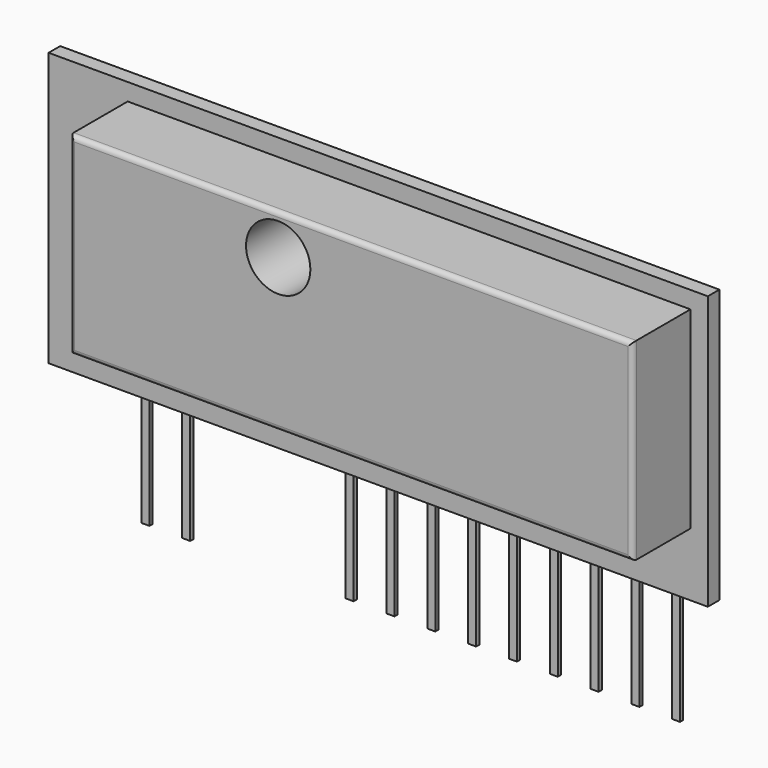
from build123d import *

# Parameters (mm, degrees)
SKETCH_W     = 41
SKETCH_H     = 17
PAD_DEPTH    = 0.9
PAD001_DEPTH = 0.25
PAD002_DEPTH = 0.25
PAD003_DEPTH = 0.25
PAD004_DEPTH = 0.25
PAD005_DEPTH = 0.25
PAD006_DEPTH = 0.25
PAD007_DEPTH = 0.25
PAD008_DEPTH = 0.25
PAD009_DEPTH = 0.25
PAD010_DEPTH = 0.25
PAD011_DEPTH = 0.25
SKETCH012_W  = 35
SKETCH012_H  = 12
SKETCH012_R  = 2
PAD012_DEPTH = 4.5
FILLET_R     = 0.3


with BuildPart() as pcb:
    # Sketch → Pad (new body)
    with BuildSketch(Plane.XZ):
        with Locations((0, 9)):
            Rectangle(SKETCH_W, SKETCH_H)
    extrude(amount=PAD_DEPTH)


with BuildPart() as pin2:
    # Sketch001 → Pad001 (new body)
    with BuildSketch(Plane.XZ):
        Polygon((-1, 3.29), (1, 3.29), (1, 0.75), (0.25, 0), (0.25, -7), (-0.25, -7), (-0.25, 0), (-1, 0.75), align=None)
    extrude(amount=PAD001_DEPTH)


with BuildPart() as pin2_1:
    # Body001 placement: moved
    add(pin2.part.moved(Location((-15.24, 0.3, 0))))


with BuildPart() as pin3:
    # Sketch002 → Pad002 (new body)
    with BuildSketch(Plane.XZ):
        Polygon((-1, 3.29), (1, 3.29), (1, 0.75), (0.25, 0), (0.25, -7), (-0.25, -7), (-0.25, 0), (-1, 0.75), align=None)
    extrude(amount=PAD002_DEPTH)


with BuildPart() as pin3_1:
    # Body002 placement: moved
    add(pin3.part.moved(Location((-12.7, 0.3, 0))))


with BuildPart() as pin7:
    # Sketch003 → Pad003 (new body)
    with BuildSketch(Plane.XZ):
        Polygon((-1, 3.29), (1, 3.29), (1, 0.75), (0.25, 0), (0.25, -7), (-0.25, -7), (-0.25, 0), (-1, 0.75), align=None)
    extrude(amount=PAD003_DEPTH)


with BuildPart() as pin7_1:
    # Body003 placement: moved
    add(pin7.part.moved(Location((-2.54, 0.3, 0))))


with BuildPart() as pin8:
    # Sketch004 → Pad004 (new body)
    with BuildSketch(Plane.XZ):
        Polygon((-1, 3.29), (1, 3.29), (1, 0.75), (0.25, 0), (0.25, -7), (-0.25, -7), (-0.25, 0), (-1, 0.75), align=None)
    extrude(amount=PAD004_DEPTH)


with BuildPart() as pin8_1:
    # Body004 placement: moved
    add(pin8.part.moved(Location((0, 0.3, 0))))


with BuildPart() as pin9:
    # Sketch005 → Pad005 (new body)
    with BuildSketch(Plane.XZ):
        Polygon((-1, 3.29), (1, 3.29), (1, 0.75), (0.25, 0), (0.25, -7), (-0.25, -7), (-0.25, 0), (-1, 0.75), align=None)
    extrude(amount=PAD005_DEPTH)


with BuildPart() as pin9_1:
    # Body005 placement: moved
    add(pin9.part.moved(Location((2.54, 0.3, 0))))


with BuildPart() as pin10:
    # Sketch006 → Pad006 (new body)
    with BuildSketch(Plane.XZ):
        Polygon((-1, 3.29), (1, 3.29), (1, 0.75), (0.25, 0), (0.25, -7), (-0.25, -7), (-0.25, 0), (-1, 0.75), align=None)
    extrude(amount=PAD006_DEPTH)


with BuildPart() as pin10_1:
    # Body006 placement: moved
    add(pin10.part.moved(Location((5.08, 0.3, 0))))


with BuildPart() as pin11:
    # Sketch007 → Pad007 (new body)
    with BuildSketch(Plane.XZ):
        Polygon((-1, 3.29), (1, 3.29), (1, 0.75), (0.25, 0), (0.25, -7), (-0.25, -7), (-0.25, 0), (-1, 0.75), align=None)
    extrude(amount=PAD007_DEPTH)


with BuildPart() as pin11_1:
    # Body007 placement: moved
    add(pin11.part.moved(Location((7.62, 0.3, 0))))


with BuildPart() as pin12:
    # Sketch008 → Pad008 (new body)
    with BuildSketch(Plane.XZ):
        Polygon((-1, 3.29), (1, 3.29), (1, 0.75), (0.25, 0), (0.25, -7), (-0.25, -7), (-0.25, 0), (-1, 0.75), align=None)
    extrude(amount=PAD008_DEPTH)


with BuildPart() as pin12_1:
    # Body008 placement: moved
    add(pin12.part.moved(Location((10.16, 0.3, 0))))


with BuildPart() as pin13:
    # Sketch009 → Pad009 (new body)
    with BuildSketch(Plane.XZ):
        Polygon((-1, 3.29), (1, 3.29), (1, 0.75), (0.25, 0), (0.25, -7), (-0.25, -7), (-0.25, 0), (-1, 0.75), align=None)
    extrude(amount=PAD009_DEPTH)


with BuildPart() as pin13_1:
    # Body009 placement: moved
    add(pin13.part.moved(Location((12.7, 0.3, 0))))


with BuildPart() as pin14:
    # Sketch010 → Pad010 (new body)
    with BuildSketch(Plane.XZ):
        Polygon((-1, 3.29), (1, 3.29), (1, 0.75), (0.25, 0), (0.25, -7), (-0.25, -7), (-0.25, 0), (-1, 0.75), align=None)
    extrude(amount=PAD010_DEPTH)


with BuildPart() as pin14_1:
    # Body010 placement: moved
    add(pin14.part.moved(Location((15.24, 0.3, 0))))


with BuildPart() as pin15:
    # Sketch011 → Pad011 (new body)
    with BuildSketch(Plane.XZ):
        Polygon((-1, 3.29), (1, 3.29), (1, 0.75), (0.25, 0), (0.25, -7), (-0.25, -7), (-0.25, 0), (-1, 0.75), align=None)
    extrude(amount=PAD011_DEPTH)


with BuildPart() as pin15_1:
    # Body011 placement: moved
    add(pin15.part.moved(Location((17.76, 0.3, 0))))


with BuildPart() as shield:
    # Sketch012 → Pad012 (new body)
    with BuildSketch(Plane.XZ):
        with Locations((2, 10.5)):
            Rectangle(SKETCH012_W, SKETCH012_H)
        with Locations((-2.54, 14)):
            Circle(SKETCH012_R, mode=Mode.SUBTRACT)
    extrude(amount=PAD012_DEPTH)

    # Fillet
    fillet_edges = [shield.edges().sort_by_distance(p)[0] for p in [
        (2, -4.5, 16.5),
        (-15.5, -4.5, 10.5),
        (2, -4.5, 4.5),
        (19.5, -4.5, 10.5),
    ]]
    fillet(fillet_edges, radius=FILLET_R)


with BuildPart() as shield_1:
    # Body012 placement: moved
    add(shield.part.moved(Location((0, -1, 0))))


solid = Compound([pcb.part, pin2_1.part, pin3_1.part, pin7_1.part, pin8_1.part, pin9_1.part, pin10_1.part, pin11_1.part, pin12_1.part, pin13_1.part, pin14_1.part, pin15_1.part, shield_1.part])
